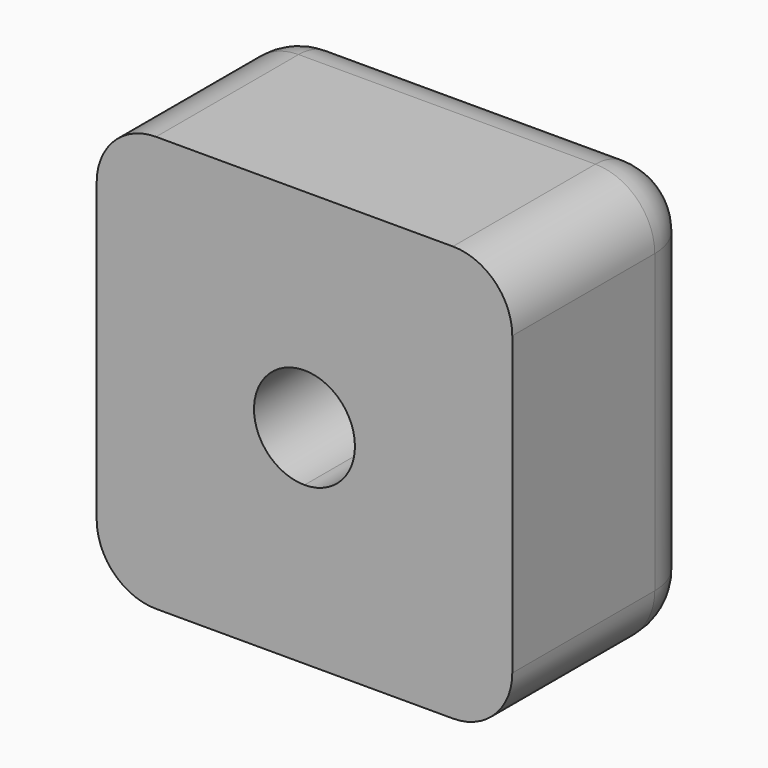
from build123d import *

# Parameters (mm, degrees)
F1_DEPTH = 20
F2_R     = 5


with BuildPart() as f1:
    # F0 (on Front) → F1 (new body)
    with BuildSketch(Plane.XZ):
        with BuildLine():
            ThreePointArc((-13.25, 17.5), (-20.505204, 20.505204), (-17.5, 13.25))
            ThreePointArc((-17.5, 13.25), (-14.494796, 14.494796), (-13.25, 17.5))
        make_face()
        Polygon((-17.5, 0), (0, 0), (0, 35), (-35, 35), (-35, 0), align=None)
        with BuildLine():
            ThreePointArc((-13.25, 17.5), (-14.494796, 14.494796), (-17.5, 13.25))
            ThreePointArc((-17.5, 13.25), (-20.505204, 20.505204), (-13.25, 17.5))
        make_face(mode=Mode.SUBTRACT)
        Polygon((-17.5, 0), (0, 0), (0, 35), (-35, 35), (-35, 0), align=None)
        with BuildLine():
            ThreePointArc((-13.25, 17.5), (-14.494796, 14.494796), (-17.5, 13.25))
            ThreePointArc((-17.5, 13.25), (-20.505204, 20.505204), (-13.25, 17.5))
        make_face(mode=Mode.SUBTRACT)
    extrude(amount=F1_DEPTH)

    # F2
    f2_edges = [f1.edges().sort_by_distance(p)[0] for p in [
        (-35, -10, 35),
        (-35, -10, 0),
        (0, -10, 35),
        (0, -10, 0),
        (-17.5, 0, 35),
        (0, 0, 17.5),
        (-17.5, 0, 0),
        (-35, 0, 17.5),
    ]]
    fillet(f2_edges, radius=F2_R)


solid = f1.part
